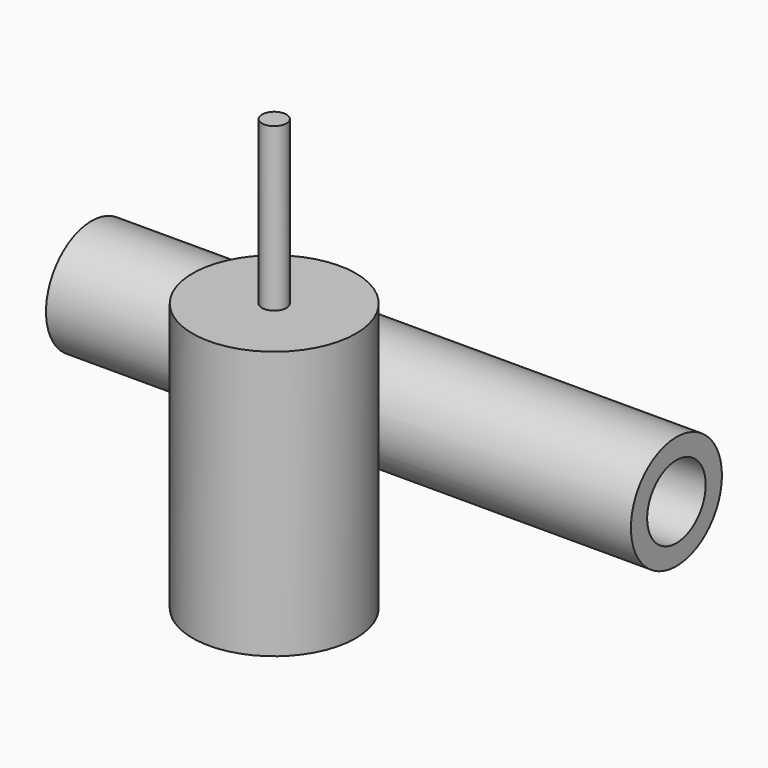
from build123d import *

# Parameters (mm, degrees)
F0_R     = 11.1125
F1_DEPTH = 57.15
F3_R     = 7.14375
F4_DEPTH = 114.3
F5_R     = 15.950796
F6_DEPTH = 26.19375
F7_R     = 2.38125
F8_DEPTH = 31.75


with BuildPart() as f1:
    # F0 (on Right) → F1 (new body, symmetric)
    with BuildSketch(Plane.YZ):
        Circle(F0_R)
    extrude(amount=F1_DEPTH, both=True)

    # F3 (on face) → F4 (cut)
    with BuildSketch(Plane.YZ.offset(57.15)):
        Circle(F3_R)
    extrude(amount=-F4_DEPTH, mode=Mode.SUBTRACT)

    # F5 (on Top) → F6 (join, symmetric)
    with BuildSketch(Plane.XY):
        with Locations((-0.234567, -26.506469)):
            Circle(F5_R)
    extrude(amount=F6_DEPTH, both=True)

    # F7 (on face) → F8 (join)
    with BuildSketch(Plane.XY.offset(26.19375)):
        with Locations((-0.234567, -26.506469)):
            Circle(F7_R)
    extrude(amount=F8_DEPTH)


solid = f1.part
